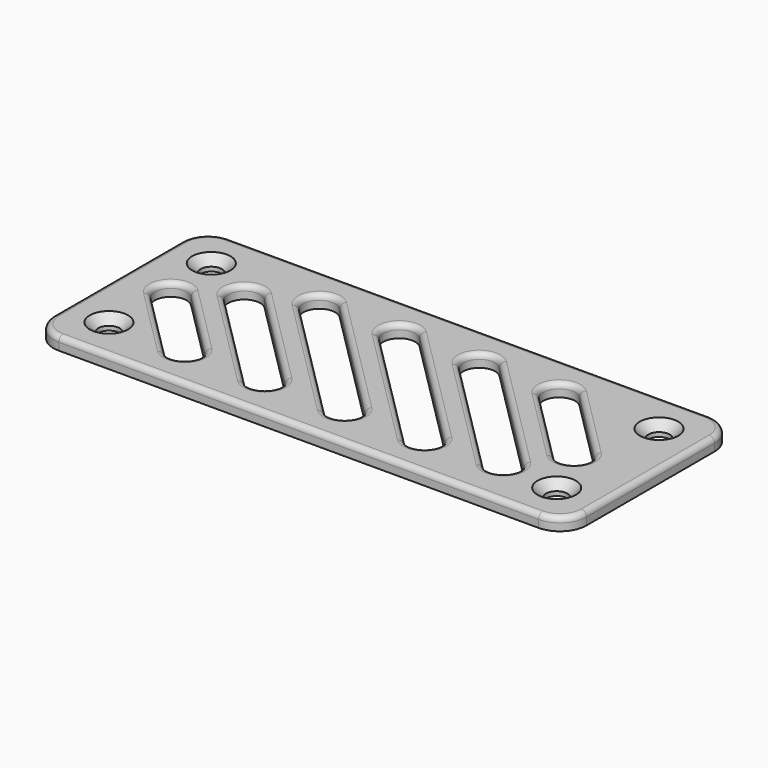
from build123d import *

# Parameters (mm, degrees)
F0_R     = 2.54
F1_DEPTH = 3.048
F2_SIZE  = 2.032
F3_R     = 1.27


with BuildPart() as f1:
    # F0 (on Top) → F1 (new body)
    with BuildSketch(Plane.XY):
        with BuildLine():
            Line((38.1, 29.322231), (-76.2, 29.322231))
            ThreePointArc((-76.2, 29.322231), (-80.690128, 27.462359), (-82.55, 22.972231))
            Line((-82.55, 22.972231), (-82.55, -15.127769))
            ThreePointArc((-82.55, -15.127769), (-80.690128, -19.617897), (-76.2, -21.477769))
            Line((-76.2, -21.477769), (38.1, -21.477769))
            ThreePointArc((38.1, -21.477769), (42.590128, -19.617897), (44.45, -15.127769))
            Line((44.45, -15.127769), (44.45, 22.972231))
            ThreePointArc((44.45, 22.972231), (42.590128, 27.462359), (38.1, 29.322231))
        make_face()
        with Locations((-72.39, -11.317769)):
            Circle(F0_R, mode=Mode.SUBTRACT)
        with BuildLine():
            ThreePointArc((-73.814077, 2.806308), (-73.814077, 8.194461), (-68.425923, 8.194461))
            Line((-68.425923, 8.194461), (-51.761846, -8.469616))
            ThreePointArc((-51.761846, -8.469616), (-51.761846, -13.857769), (-57.15, -13.857769))
            Line((-57.15, -13.857769), (-73.814077, 2.806308))
        make_face(mode=Mode.SUBTRACT)
        with BuildLine():
            ThreePointArc((-62.454586, 10.496817), (-62.454586, 15.884971), (-57.066432, 15.884971))
            Line((-57.066432, 15.884971), (-32.711846, -8.469616))
            ThreePointArc((-32.711846, -8.469616), (-32.711846, -13.857769), (-38.1, -13.857769))
            Line((-38.1, -13.857769), (-62.454586, 10.496817))
        make_face(mode=Mode.SUBTRACT)
        with Locations((34.29, -11.317769)):
            Circle(F0_R, mode=Mode.SUBTRACT)
        with BuildLine():
            ThreePointArc((-30.171846, 16.314077), (-30.171846, 21.702231), (-24.783693, 21.702231))
            Line((-24.783693, 21.702231), (5.388154, -8.469616))
            ThreePointArc((5.388154, -8.469616), (5.388154, -13.857769), (0, -13.857769))
            Line((0, -13.857769), (-30.171846, 16.314077))
        make_face(mode=Mode.SUBTRACT)
        with BuildLine():
            ThreePointArc((-49.221846, 16.314077), (-49.221846, 21.702231), (-43.833693, 21.702231))
            Line((-43.833693, 21.702231), (-13.661846, -8.469616))
            ThreePointArc((-13.661846, -8.469616), (-13.661846, -13.857769), (-19.05, -13.857769))
            Line((-19.05, -13.857769), (-49.221846, 16.314077))
        make_face(mode=Mode.SUBTRACT)
        with Locations((-72.39, 19.162231)):
            Circle(F0_R, mode=Mode.SUBTRACT)
        with BuildLine():
            ThreePointArc((-11.121846, 16.314077), (-11.121846, 21.702231), (-5.733693, 21.702231))
            Line((-5.733693, 21.702231), (23.094586, -7.126048))
            ThreePointArc((23.094586, -7.126048), (23.094586, -12.514201), (17.706432, -12.514201))
            Line((17.706432, -12.514201), (-11.121846, 16.314077))
        make_face(mode=Mode.SUBTRACT)
        with BuildLine():
            ThreePointArc((7.928154, 16.314077), (7.928154, 21.702231), (13.316307, 21.702231))
            Line((13.316307, 21.702231), (31.01274, 4.005798))
            ThreePointArc((31.01274, 4.005798), (31.01274, -1.382355), (25.624586, -1.382355))
            Line((25.624586, -1.382355), (7.928154, 16.314077))
        make_face(mode=Mode.SUBTRACT)
        with Locations((34.29, 19.162231)):
            Circle(F0_R, mode=Mode.SUBTRACT)
    extrude(amount=F1_DEPTH)

    # F2
    f2_edges = [f1.edges().sort_by_distance(p)[0] for p in [
        (31.75, 19.162231, 3.048),
        (31.75, -11.317769, 3.048),
        (-74.93, 19.162231, 3.048),
        (-74.93, -11.317769, 3.048),
    ]]
    chamfer(f2_edges, length=F2_SIZE)

    # F3
    f3_edges = [f1.edges().sort_by_distance(p)[0] for p in [
        (-19.05, 29.322231, 3.048),
        (-28.747769, 6.616308, 3.048),
        (-9.697769, 6.616308, 3.048),
        (3.292293, 1.899938, 3.048),
        (16.77637, 7.465861, 3.048),
        (-50.277293, -1.680476, 3.048),
        (-65.482038, -5.525731, 3.048),
    ]]
    fillet(f3_edges, radius=F3_R)


solid = f1.part
